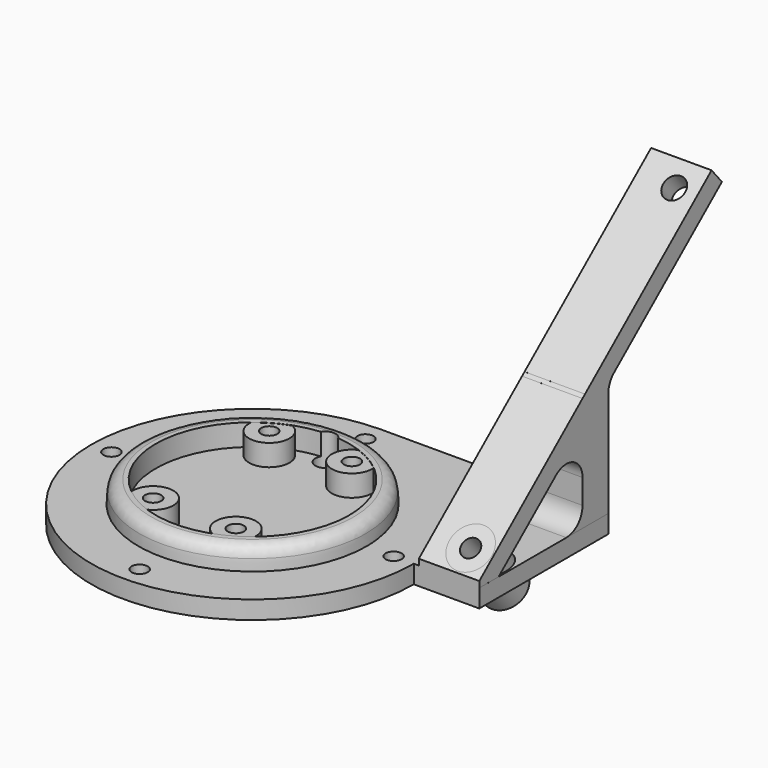
from build123d import *

# Parameters (mm, degrees)
SKETCH069_W                 = 1.5
SKETCH069_H                 = 1.5
EXTRUDE022_DEPTH            = 15
EXTRUDE021_DEPTH            = 15
CYLINDER126_R               = 2.75
CYLINDER126_DEPTH           = 10
CYLINDER126_PLACEMENT_ANGLE = 40
CYLINDER127_R               = 2.25
CYLINDER127_DEPTH           = 21
CYLINDER127_PLACEMENT_ANGLE = 40
CYLINDER117_R               = 2
CYLINDER117_DEPTH           = 10
CYLINDER118_R               = 2
CYLINDER118_DEPTH           = 10
CYLINDER119_R               = 2
CYLINDER119_DEPTH           = 10
CYLINDER116_R               = 2
CYLINDER116_DEPTH           = 10
CYLINDER124_R               = 2.5
CYLINDER124_DEPTH           = 60
CYLINDER120_R               = 2
CYLINDER120_DEPTH           = 10
CYLINDER121_R               = 2
CYLINDER121_DEPTH           = 10
CYLINDER122_R               = 2
CYLINDER122_DEPTH           = 10
CYLINDER123_R               = 2
CYLINDER123_DEPTH           = 10
EXTRUDE019_DEPTH            = 4.5
CYLINDER101_R               = 2
CYLINDER101_DEPTH           = 10
CYLINDER102_R               = 2
CYLINDER102_DEPTH           = 10
CYLINDER103_R               = 2
CYLINDER103_DEPTH           = 10
CYLINDER100_R               = 2
CYLINDER100_DEPTH           = 10
CYLINDER110_R               = 2.5
CYLINDER110_DEPTH           = 60
CYLINDER104_R               = 2
CYLINDER104_DEPTH           = 10
CYLINDER105_R               = 2
CYLINDER105_DEPTH           = 10
CYLINDER106_R               = 2
CYLINDER106_DEPTH           = 10
CYLINDER107_R               = 2
CYLINDER107_DEPTH           = 10
CYLINDER094_R               = 5.5
CYLINDER094_DEPTH           = 14.5
CYLINDER096_R               = 5
CYLINDER096_DEPTH           = 5.82
CYLINDER097_R               = 5
CYLINDER097_DEPTH           = 5.82
CYLINDER098_R               = 5
CYLINDER098_DEPTH           = 5.82
CYLINDER099_R               = 5
CYLINDER099_DEPTH           = 5.82
CYLINDER092_R               = 40
CYLINDER092_DEPTH           = 4.5
CYLINDER093_R               = 24
CYLINDER093_DEPTH           = 7
SKETCH067_W                 = 15
SKETCH067_H                 = 8
EXTRUDE020_DEPTH            = 33.5
CYLINDER125_R               = 5.25
CYLINDER125_DEPTH           = 21
CYLINDER125_PLACEMENT_ANGLE = 40
EXTRUDE017_DEPTH            = 15
FILLET039_R                 = 3
FILLET040_R                 = 5


with BuildPart() as extrude022:
    # Sketch069 → Extrude022 (new body)
    with BuildSketch(Plane.YZ):
        with Locations((-111.25, -91.75)):
            Rectangle(SKETCH069_W, SKETCH069_H)
    extrude(amount=EXTRUDE022_DEPTH)


with BuildPart() as extrude022_1:
    # Extrude022 placement: moved
    add(extrude022.part.moved(Location((-138.75, 0, 0))))


with BuildPart() as lightmodulecut002:
    # Sketch068 → Extrude021 (new body)
    with BuildSketch(Plane.YZ):
        Polygon((-112, -91), (-108.786062, -94.830222), (-36.777884, -34.408187), (-39.991822, -30.577965), align=None)
    extrude(amount=EXTRUDE021_DEPTH)


with BuildPart() as lightmodulecut002_1:
    # Extrude021 placement: moved
    add(lightmodulecut002.part.moved(Location((-138.75, -7.78, 0))))


with BuildPart() as cylinder126:
    # Cylinder126 → Cylinder126 (new body)
    with BuildSketch(Plane.XY):
        Circle(CYLINDER126_R)
    extrude(amount=CYLINDER126_DEPTH)


with BuildPart() as cylinder126_1:
    # Cylinder126 placement: moved
    add(cylinder126.part.moved(Location((-129.35, -40.01, -39.84))).rotate(Axis((-129.35, -40.01, -39.84), (1, 0, 0)), CYLINDER126_PLACEMENT_ANGLE))


with BuildPart() as fusion073:
    # Cylinder127 → Cylinder127 (new body)
    with BuildSketch(Plane.XY):
        Circle(CYLINDER127_R)
    extrude(amount=CYLINDER127_DEPTH)


with BuildPart() as fusion073_1:
    # Cylinder127 placement: moved
    add(fusion073.part.moved(Location((-129.35, -97.1, -100))).rotate(Axis((-129.35, -97.1, -100), (1, 0, 0)), CYLINDER127_PLACEMENT_ANGLE))

    # Fusion072: union Cylinder126
    add(cylinder126_1.part)

    # Fusion073: union lightModuleCut002
    add(lightmodulecut002_1.part)


with BuildPart() as obj1:
    # Cylinder117 → Cylinder117 (new body)
    with BuildSketch(Plane(origin=(40, 0, 65), x_dir=(1, 0, 0), z_dir=(0, 0, 1))):
        Circle(CYLINDER117_R)
    extrude(amount=CYLINDER117_DEPTH)


with BuildPart() as obj2:
    # Cylinder118 → Cylinder118 (new body)
    with BuildSketch(Plane(origin=(5, 35, 65), x_dir=(1, 0, 0), z_dir=(0, 0, 1))):
        Circle(CYLINDER118_R)
    extrude(amount=CYLINDER118_DEPTH)


with BuildPart() as obj3:
    # Cylinder119 → Cylinder119 (new body)
    with BuildSketch(Plane(origin=(5, -35, 65), x_dir=(1, 0, 0), z_dir=(0, 0, 1))):
        Circle(CYLINDER119_R)
    extrude(amount=CYLINDER119_DEPTH)


with BuildPart() as fusion066:
    # Cylinder116 → Cylinder116 (new body)
    with BuildSketch(Plane(origin=(-30, 0, 65), x_dir=(1, 0, 0), z_dir=(0, 0, 1))):
        Circle(CYLINDER116_R)
    extrude(amount=CYLINDER116_DEPTH)

    # Fusion066: union obj1, obj2, obj3
    add(obj1.part)
    add(obj2.part)
    add(obj3.part)


with BuildPart() as fusion066_1:
    # Fusion066 placement: moved
    add(fusion066.part.moved(Location((129, 10, 0))))


with BuildPart() as wirecut002:
    # Cylinder124 → Cylinder124 (new body)
    with BuildSketch(Plane(origin=(134, 32.6, 20), x_dir=(1, 0, 0), z_dir=(0, 0, 1))):
        Circle(CYLINDER124_R)
    extrude(amount=CYLINDER124_DEPTH)


with BuildPart() as cylinder120:
    # Cylinder120 → Cylinder120 (new body)
    with BuildSketch(Plane(origin=(0, -21, 0), x_dir=(1, 0, 0), z_dir=(0, 0, 1))):
        Circle(CYLINDER120_R)
    extrude(amount=CYLINDER120_DEPTH)


with BuildPart() as m3heatsetcuts013:
    # Cylinder121 → Cylinder121 (new body)
    with BuildSketch(Plane(origin=(20.5, -21, 0), x_dir=(1, 0, 0), z_dir=(0, 0, 1))):
        Circle(CYLINDER121_R)
    extrude(amount=CYLINDER121_DEPTH)

    # Fusion068: union Cylinder120
    add(cylinder120.part)


with BuildPart() as m3heatsetcuts013_1:
    # Fusion068 placement: moved
    add(m3heatsetcuts013.part.moved(Location((-5, 39, 70))))


with BuildPart() as cylinder122:
    # Cylinder122 → Cylinder122 (new body)
    with BuildSketch(Plane(origin=(0, -21, 0), x_dir=(1, 0, 0), z_dir=(0, 0, 1))):
        Circle(CYLINDER122_R)
    extrude(amount=CYLINDER122_DEPTH)


with BuildPart() as lightmodulecut003:
    # Cylinder123 → Cylinder123 (new body)
    with BuildSketch(Plane(origin=(20.5, -21, 0), x_dir=(1, 0, 0), z_dir=(0, 0, 1))):
        Circle(CYLINDER123_R)
    extrude(amount=CYLINDER123_DEPTH)

    # Fusion069: union Cylinder122
    add(cylinder122.part)


with BuildPart() as lightmodulecut003_1:
    # Fusion069 placement: moved
    add(lightmodulecut003.part.moved(Location((-5, 3, 70))))

    # Fusion067: union m3HeatSetCuts013
    add(m3heatsetcuts013_1.part)


with BuildPart() as lightmodulecut003_2:
    # Fusion067 placement: moved
    add(lightmodulecut003_1.part.moved(Location((128.75, 10, -1))))

    # Fusion070: union Fusion066, WireCut002
    add(fusion066_1.part)
    add(wirecut002.part)


with BuildPart() as lightmodulecut003_3:
    # Fusion070 placement: moved
    add(lightmodulecut003_2.part.moved(Location((-314, -122, -162))))

    # Fusion075: union Fusion073
    add(fusion073_1.part)


with BuildPart() as lightmodulehold:
    # Sketch063 → Extrude019 (new body)
    with BuildSketch(Plane.XY):
        with BuildLine():
            Line((-180, -72), (-123.748055, -72))
            Line((-123.748055, -72), (-123.748055, -112))
            Line((-123.748055, -112), (-220, -112))
            ThreePointArc((-180, -72), (-208.284271, -83.715729), (-220, -112))
        make_face()
    extrude(amount=EXTRUDE019_DEPTH)


with BuildPart() as lightmodulehold_1:
    # Extrude019 placement: moved
    add(lightmodulehold.part.moved(Location((0, 0, -97))))


with BuildPart() as obj4:
    # Cylinder101 → Cylinder101 (new body)
    with BuildSketch(Plane(origin=(40, 0, 65), x_dir=(1, 0, 0), z_dir=(0, 0, 1))):
        Circle(CYLINDER101_R)
    extrude(amount=CYLINDER101_DEPTH)


with BuildPart() as obj5:
    # Cylinder102 → Cylinder102 (new body)
    with BuildSketch(Plane(origin=(5, 35, 65), x_dir=(1, 0, 0), z_dir=(0, 0, 1))):
        Circle(CYLINDER102_R)
    extrude(amount=CYLINDER102_DEPTH)


with BuildPart() as obj6:
    # Cylinder103 → Cylinder103 (new body)
    with BuildSketch(Plane(origin=(5, -35, 65), x_dir=(1, 0, 0), z_dir=(0, 0, 1))):
        Circle(CYLINDER103_R)
    extrude(amount=CYLINDER103_DEPTH)


with BuildPart() as fusion057:
    # Cylinder100 → Cylinder100 (new body)
    with BuildSketch(Plane(origin=(-30, 0, 65), x_dir=(1, 0, 0), z_dir=(0, 0, 1))):
        Circle(CYLINDER100_R)
    extrude(amount=CYLINDER100_DEPTH)

    # Fusion057: union obj4, obj5, obj6
    add(obj4.part)
    add(obj5.part)
    add(obj6.part)


with BuildPart() as fusion057_1:
    # Fusion057 placement: moved
    add(fusion057.part.moved(Location((129, 10, 0))))


with BuildPart() as wirecut001:
    # Cylinder110 → Cylinder110 (new body)
    with BuildSketch(Plane(origin=(134, 32.6, 20), x_dir=(1, 0, 0), z_dir=(0, 0, 1))):
        Circle(CYLINDER110_R)
    extrude(amount=CYLINDER110_DEPTH)


with BuildPart() as cylinder104:
    # Cylinder104 → Cylinder104 (new body)
    with BuildSketch(Plane(origin=(0, -21, 0), x_dir=(1, 0, 0), z_dir=(0, 0, 1))):
        Circle(CYLINDER104_R)
    extrude(amount=CYLINDER104_DEPTH)


with BuildPart() as m3heatsetcuts010:
    # Cylinder105 → Cylinder105 (new body)
    with BuildSketch(Plane(origin=(20.5, -21, 0), x_dir=(1, 0, 0), z_dir=(0, 0, 1))):
        Circle(CYLINDER105_R)
    extrude(amount=CYLINDER105_DEPTH)

    # Fusion060: union Cylinder104
    add(cylinder104.part)


with BuildPart() as m3heatsetcuts010_1:
    # Fusion060 placement: moved
    add(m3heatsetcuts010.part.moved(Location((-5, 39, 70))))


with BuildPart() as cylinder106:
    # Cylinder106 → Cylinder106 (new body)
    with BuildSketch(Plane(origin=(0, -21, 0), x_dir=(1, 0, 0), z_dir=(0, 0, 1))):
        Circle(CYLINDER106_R)
    extrude(amount=CYLINDER106_DEPTH)


with BuildPart() as lightmodulecut:
    # Cylinder107 → Cylinder107 (new body)
    with BuildSketch(Plane(origin=(20.5, -21, 0), x_dir=(1, 0, 0), z_dir=(0, 0, 1))):
        Circle(CYLINDER107_R)
    extrude(amount=CYLINDER107_DEPTH)

    # Fusion061: union Cylinder106
    add(cylinder106.part)


with BuildPart() as lightmodulecut_1:
    # Fusion061 placement: moved
    add(lightmodulecut.part.moved(Location((-5, 3, 70))))

    # Fusion058: union m3HeatSetCuts010
    add(m3heatsetcuts010_1.part)


with BuildPart() as lightmodulecut_2:
    # Fusion058 placement: moved
    add(lightmodulecut_1.part.moved(Location((128.75, 10, -1))))

    # Fusion062: union Fusion057, WireCut001
    add(fusion057_1.part)
    add(wirecut001.part)


with BuildPart() as cylinder094:
    # Cylinder094 → Cylinder094 (new body)
    with BuildSketch(Plane(origin=(134, 32.6, 55), x_dir=(1, 0, 0), z_dir=(0, 0, 1))):
        Circle(CYLINDER094_R)
    extrude(amount=CYLINDER094_DEPTH)


with BuildPart() as cylinder096:
    # Cylinder096 → Cylinder096 (new body)
    with BuildSketch(Plane(origin=(0, -21, 0), x_dir=(1, 0, 0), z_dir=(0, 0, 1))):
        Circle(CYLINDER096_R)
    extrude(amount=CYLINDER096_DEPTH)


with BuildPart() as m3heatsetcuts006:
    # Cylinder097 → Cylinder097 (new body)
    with BuildSketch(Plane(origin=(20.5, -21, 0), x_dir=(1, 0, 0), z_dir=(0, 0, 1))):
        Circle(CYLINDER097_R)
    extrude(amount=CYLINDER097_DEPTH)

    # Fusion052: union Cylinder096
    add(cylinder096.part)


with BuildPart() as m3heatsetcuts006_1:
    # Fusion052 placement: moved
    add(m3heatsetcuts006.part.moved(Location((-5, 39, 70))))


with BuildPart() as cylinder098:
    # Cylinder098 → Cylinder098 (new body)
    with BuildSketch(Plane(origin=(0, -21, 0), x_dir=(1, 0, 0), z_dir=(0, 0, 1))):
        Circle(CYLINDER098_R)
    extrude(amount=CYLINDER098_DEPTH)


with BuildPart() as m3heatsetcuts008:
    # Cylinder099 → Cylinder099 (new body)
    with BuildSketch(Plane(origin=(20.5, -21, 0), x_dir=(1, 0, 0), z_dir=(0, 0, 1))):
        Circle(CYLINDER099_R)
    extrude(amount=CYLINDER099_DEPTH)

    # Fusion053: union Cylinder098
    add(cylinder098.part)


with BuildPart() as m3heatsetcuts008_1:
    # Fusion053 placement: moved
    add(m3heatsetcuts008.part.moved(Location((-5, 3, 70))))

    # Fusion054: union m3HeatSetCuts006
    add(m3heatsetcuts006_1.part)


with BuildPart() as m3heatsetcuts008_2:
    # Fusion054 placement: moved
    add(m3heatsetcuts008_1.part.moved(Location((128.75, 10, -1))))


with BuildPart() as base008:
    # Cylinder092 → Cylinder092 (new body)
    with BuildSketch(Plane(origin=(136, 0, 65), x_dir=(1, 0, 0), z_dir=(0, 0, 1))):
        Circle(CYLINDER092_R)
    extrude(amount=CYLINDER092_DEPTH)


with BuildPart() as basecut001:
    # Cylinder093 → Cylinder093 (new body)
    with BuildSketch(Plane(origin=(5, 0, 74), x_dir=(1, 0, 0), z_dir=(0, 0, 1))):
        Circle(CYLINDER093_R)
    extrude(amount=CYLINDER093_DEPTH)


with BuildPart() as lightmoduleholder:
    # Sphere003 → Sphere003 (revolve)
    with BuildSketch(Plane(origin=(5, 0, 74), x_dir=(1, 0, 0), z_dir=(0, -1, 0))):
        with BuildLine():
            ThreePointArc((28.3, 0), (28.14497, 2.958156), (27.681577, 5.883901))
            Line((27.681577, 5.883901), (0, 5.883901))
            Line((0, 5.883901), (0, 0))
            Line((0, 0), (28.3, 0))
        make_face()
    revolve(axis=Axis((5, 0, 74), (0, 0, 1)))

    # Cut027: cut baseCut001
    add(basecut001.part, mode=Mode.SUBTRACT)


with BuildPart() as lightmoduleholder_1:
    # Cut027 placement: moved
    add(lightmoduleholder.part.moved(Location((131, 0, -5))))

    # Fusion055: union base008
    add(base008.part)


with BuildPart() as lightmoduleholder_2:
    # Fusion055 placement: moved
    add(lightmoduleholder_1.part.moved(Location((-2, 10, 0))))

    # Fusion056: union Cylinder094, m3HeatSetCuts008
    add(cylinder094.part)
    add(m3heatsetcuts008_2.part)

    # Cut028: cut lightModuleCut
    add(lightmodulecut_2.part, mode=Mode.SUBTRACT)


with BuildPart() as lightmoduleholder_3:
    # Cut028 placement: moved
    add(lightmoduleholder_2.part.moved(Location((-314, -122, -162))))

    # Fusion071: union lightModuleHold
    add(lightmodulehold_1.part)


with BuildPart() as lightbasesupport:
    # Sketch067 → Extrude020 (new body)
    with BuildSketch(Plane.XY):
        with Locations((-131.25, -76)):
            Rectangle(SKETCH067_W, SKETCH067_H)
    extrude(amount=EXTRUDE020_DEPTH)


with BuildPart() as lightbasesupport_1:
    # Extrude020 placement: moved
    add(lightbasesupport.part.moved(Location((0, 0, -97))))


with BuildPart() as obj7:
    # Cylinder125 → Cylinder125 (new body)
    with BuildSketch(Plane.XY):
        Circle(CYLINDER125_R)
    extrude(amount=CYLINDER125_DEPTH)


with BuildPart() as obj7_1:
    # Cylinder125 placement: moved
    add(obj7.part.moved(Location((-129.35, -97.1, -100))).rotate(Axis((-129.35, -97.1, -100), (1, 0, 0)), CYLINDER125_PLACEMENT_ANGLE))


with BuildPart() as lightmodule006:
    # Sketch061 → Extrude017 (new body)
    with BuildSketch(Plane.YZ):
        Polygon((-112, -91), (-108.786062, -94.830222), (-36.777884, -34.408187), (-39.991822, -30.577965), align=None)
    extrude(amount=EXTRUDE017_DEPTH)


with BuildPart() as lightmodule006_1:
    # Extrude017 placement: moved
    add(lightmodule006.part.moved(Location((-138.75, 0, 0))))

    # Fusion074: union lightModuleHolder, lightBaseSupport, obj7
    add(lightmoduleholder_3.part)
    add(lightbasesupport_1.part)
    add(obj7_1.part)

    # Cut030: cut lightModuleCut003
    add(lightmodulecut003_3.part, mode=Mode.SUBTRACT)

    # Fusion076: union Extrude022
    add(extrude022_1.part)

    # Fillet039
    fillet039_edges = [lightmodule006_1.edges().sort_by_distance(p)[0] for p in [
        (-207.681577, -112, -87.116099),
    ]]
    fillet(fillet039_edges, radius=FILLET039_R)

    # Fillet040
    fillet040_edges = [lightmodule006_1.edges().sort_by_distance(p)[0] for p in [
        (-131.25, -80, -92.5),
        (-131.25, -80, -70.675848),
        (-131.25, -72, -63.963051),
    ]]
    fillet(fillet040_edges, radius=FILLET040_R)


solid = lightmodule006_1.part
